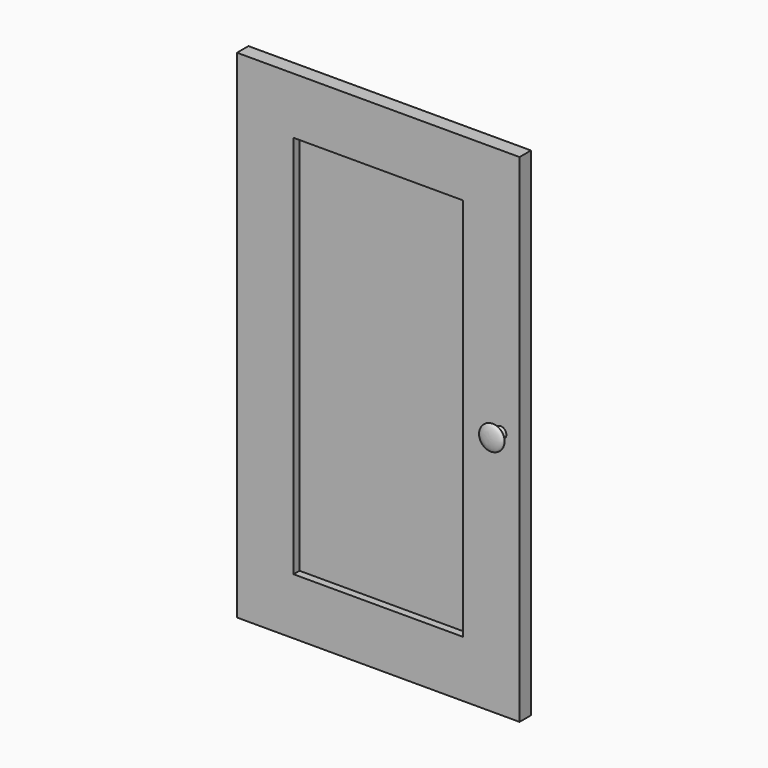
from build123d import *

# Parameters (mm, degrees)
CLONE2D_W       = 375
CLONE2D_H       = 660
PAD010_DEPTH    = 19
SKETCH026_W     = 225
SKETCH026_H     = 510
POCKET010_DEPTH = 10


with BuildPart() as part:
    # Clone2D → Pad010 (new body)
    with BuildSketch(Plane.XZ):
        with Locations((187.5, 330)):
            Rectangle(CLONE2D_W, CLONE2D_H)
    extrude(amount=PAD010_DEPTH)

    # Sketch026 (on Face6 of Pad010) → Pocket010 (cut)
    with BuildSketch(Plane.XZ.offset(19)):
        with Locations((187.5, 330)):
            Rectangle(SKETCH026_W, SKETCH026_H)
    extrude(amount=-POCKET010_DEPTH, mode=Mode.SUBTRACT)

    # Clone2D001 (on Face1 of Pocket010) → Revolution (revolve)
    with BuildSketch(Plane(origin=(350, -19, 330), x_dir=(-1, 0, 0), z_dir=(0, 0, -1))):
        with BuildLine():
            Line((0, 0), (0, -20))
            add(Edge.make_bspline(
                [(0, -20), (-18, -20), (-18, -9.133286), (-4.506424, -9.133286), (-7.5, 0)],
                knots=[0, 0, 0, 0, 0.5, 1, 1, 1, 1], degree=3, weights=[7, 6.116989, 5.810816, 6.060123, 5.999522]))
            Line((-7.5, 0), (0, 0))
        make_face()
    revolve(axis=Axis((350, -19, 330), (0, 1, 0)))


with BuildPart() as part_1:
    # Body010 placement: moved
    add(part.part.moved(Location((10, 0, 10))))


solid = part_1.part
